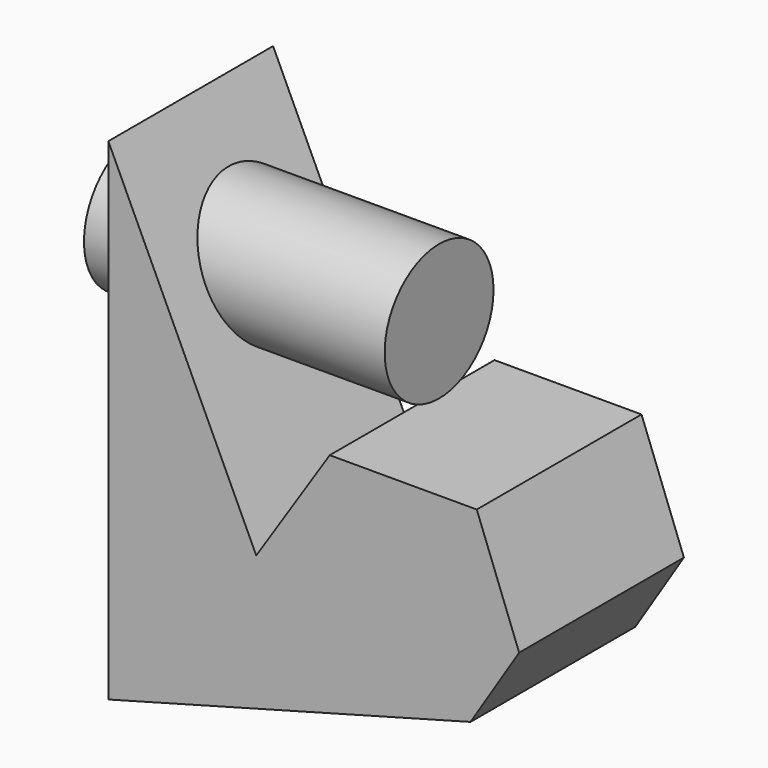
from build123d import *

# Parameters (mm, degrees)
F2_DEPTH      = 32.412255
F2_DEPTH_BACK = 25.4
F1_R          = 19.097842
F3_DEPTH      = 25.4
F3_DEPTH_BACK = 59.003653


with BuildPart() as f2:
    # F0 (on Front) → F2 (new body, two sides)
    with BuildSketch(Plane.XZ) as f2_sk:
        Polygon((20.631641, 31.503856), (0, 0), (-41.520298, 88.899463), (-41.520298, -49.084738), (60.161673, -21.557882), (73.804773, 0), (61.910786, 31.503856), align=None)
    extrude(amount=F2_DEPTH)
    extrude(f2_sk.sketch, amount=-F2_DEPTH_BACK)

    # F1 (on Right) → F3 (join, two sides)
    with BuildSketch(Plane.YZ) as f3_sk:
        with Locations((0, 52.988626)):
            Circle(F1_R)
    extrude(amount=F3_DEPTH)
    extrude(f3_sk.sketch, amount=-F3_DEPTH_BACK)


solid = f2.part
